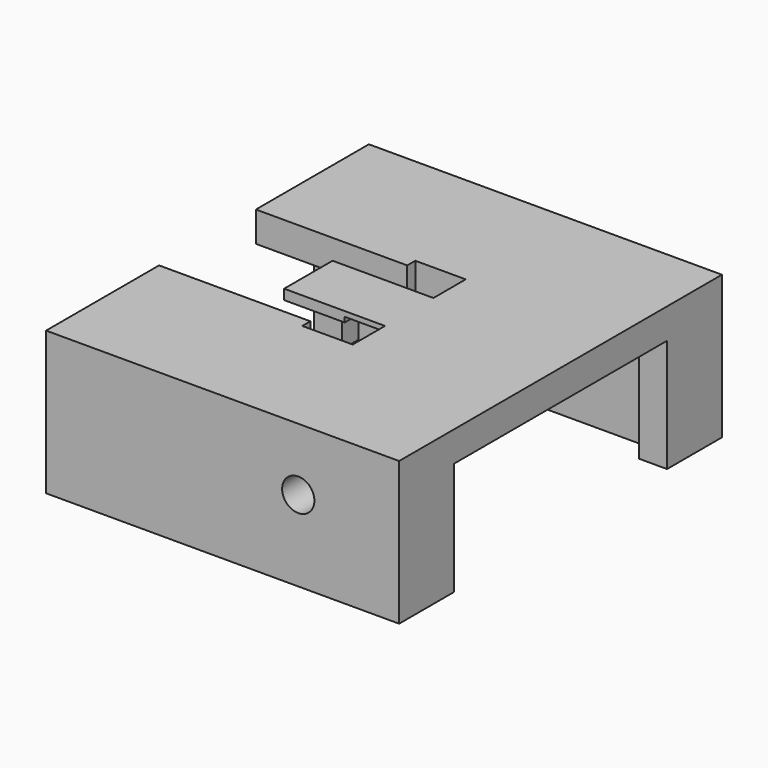
from build123d import *

# Parameters (mm, degrees)
CYLINDER005_R     = 1.6
CYLINDER005_DEPTH = 40
BOX033_W          = 31
BOX033_H          = 4.8
BOX033_DEPTH      = 12
BOX032_W          = 2.8
BOX032_H          = 6.8
BOX032_DEPTH      = 12
BOX031_W          = 2.8
BOX031_H          = 6.8
BOX031_DEPTH      = 12
BOX034_W          = 31
BOX034_H          = 4.8
BOX034_DEPTH      = 12
BOX030_W          = 2.8
BOX030_H          = 6.8
BOX030_DEPTH      = 12
BOX029_W          = 2.8
BOX029_H          = 6.8
BOX029_DEPTH      = 12
BOX040_W          = 4
BOX040_H          = 6
BOX040_DEPTH      = 0.5
BOX039_W          = 10
BOX039_H          = 6
BOX039_DEPTH      = 1
BOX038_W          = 5
BOX038_H          = 14
BOX038_DEPTH      = 3
BOX035_W          = 15
BOX035_H          = 40
BOX035_DEPTH      = 3
BOX037_W          = 20
BOX037_H          = 14
BOX037_DEPTH      = 3
BOX036_W          = 20
BOX036_H          = 14
BOX036_DEPTH      = 3


with BuildPart() as cylinder005:
    # Cylinder005 → Cylinder005 (new body)
    with BuildSketch(Plane(origin=(50, 20, 8), x_dir=(1, 0, 0), z_dir=(0, -1, 0))):
        Circle(CYLINDER005_R)
    extrude(amount=CYLINDER005_DEPTH)


with BuildPart() as cube033:
    # Box033 → Box033 (new body)
    with BuildSketch(Plane(origin=(27, -20, 0), x_dir=(1, 0, 0), z_dir=(0, 0, 1))):
        with Locations((15.5, 2.4)):
            Rectangle(BOX033_W, BOX033_H)
    extrude(amount=BOX033_DEPTH)


with BuildPart() as cube032:
    # Box032 → Box032 (new body)
    with BuildSketch(Plane(origin=(57.2, 13.2, 0), x_dir=(1, 0, 0), z_dir=(0, 0, 1))):
        with Locations((1.4, 3.4)):
            Rectangle(BOX032_W, BOX032_H)
    extrude(amount=BOX032_DEPTH)


with BuildPart() as cube031:
    # Box031 → Box031 (new body)
    with BuildSketch(Plane(origin=(57.2, -20, 0), x_dir=(1, 0, 0), z_dir=(0, 0, 1))):
        with Locations((1.4, 3.4)):
            Rectangle(BOX031_W, BOX031_H)
    extrude(amount=BOX031_DEPTH)


with BuildPart() as cube034:
    # Box034 → Box034 (new body)
    with BuildSketch(Plane(origin=(27, 15.2, 0), x_dir=(1, 0, 0), z_dir=(0, 0, 1))):
        with Locations((15.5, 2.4)):
            Rectangle(BOX034_W, BOX034_H)
    extrude(amount=BOX034_DEPTH)


with BuildPart() as cube030:
    # Box030 → Box030 (new body)
    with BuildSketch(Plane(origin=(25, 13.2, 0), x_dir=(1, 0, 0), z_dir=(0, 0, 1))):
        with Locations((1.4, 3.4)):
            Rectangle(BOX030_W, BOX030_H)
    extrude(amount=BOX030_DEPTH)


with BuildPart() as fusion004003005:
    # Box029 → Box029 (new body)
    with BuildSketch(Plane(origin=(25, -20, 0), x_dir=(1, 0, 0), z_dir=(0, 0, 1))):
        with Locations((1.4, 3.4)):
            Rectangle(BOX029_W, BOX029_H)
    extrude(amount=BOX029_DEPTH)

    # Fusion004003005: union Cube033, Cube032, Cube031, Cube034, Cube030
    add(cube033.part)
    add(cube032.part)
    add(cube031.part)
    add(cube034.part)
    add(cube030.part)


with BuildPart() as cube040:
    # Box040 → Box040 (new body)
    with BuildSketch(Plane(origin=(41, -3, 13), x_dir=(1, 0, 0), z_dir=(0, 0, 1))):
        with Locations((2, 3)):
            Rectangle(BOX040_W, BOX040_H)
    extrude(amount=BOX040_DEPTH)


with BuildPart() as cut007:
    # Box039 → Box039 (new body)
    with BuildSketch(Plane(origin=(35, -3, 13), x_dir=(1, 0, 0), z_dir=(0, 0, 1))):
        with Locations((5, 3)):
            Rectangle(BOX039_W, BOX039_H)
    extrude(amount=BOX039_DEPTH)

    # Cut007: cut Cube040
    add(cube040.part, mode=Mode.SUBTRACT)


with BuildPart() as cube038:
    # Box038 → Box038 (new body)
    with BuildSketch(Plane(origin=(40, -7, 11), x_dir=(1, 0, 0), z_dir=(0, 0, 1))):
        with Locations((2.5, 7)):
            Rectangle(BOX038_W, BOX038_H)
    extrude(amount=BOX038_DEPTH)


with BuildPart() as cube035:
    # Box035 → Box035 (new body)
    with BuildSketch(Plane(origin=(45, -20, 11), x_dir=(1, 0, 0), z_dir=(0, 0, 1))):
        with Locations((7.5, 20)):
            Rectangle(BOX035_W, BOX035_H)
    extrude(amount=BOX035_DEPTH)


with BuildPart() as cube037:
    # Box037 → Box037 (new body)
    with BuildSketch(Plane(origin=(25, 6, 11), x_dir=(1, 0, 0), z_dir=(0, 0, 1))):
        with Locations((10, 7)):
            Rectangle(BOX037_W, BOX037_H)
    extrude(amount=BOX037_DEPTH)


with BuildPart() as cut008:
    # Box036 → Box036 (new body)
    with BuildSketch(Plane(origin=(25, -20, 11), x_dir=(1, 0, 0), z_dir=(0, 0, 1))):
        with Locations((10, 7)):
            Rectangle(BOX036_W, BOX036_H)
    extrude(amount=BOX036_DEPTH)

    # Fusion004003003: union Cube035, Cube037
    add(cube035.part)
    add(cube037.part)

    # Cut006: cut Cube038
    add(cube038.part, mode=Mode.SUBTRACT)

    # Fusion004003004: union Cut007
    add(cut007.part)


with BuildPart() as cut008_1:
    # Fusion004003004 placement: moved
    add(cut008.part.moved(Location((0, 0, 0.2))))

    # Fusion004003006: union Fusion004003005
    add(fusion004003005.part)

    # Cut008: cut Cylinder005
    add(cylinder005.part, mode=Mode.SUBTRACT)


solid = cut008_1.part
